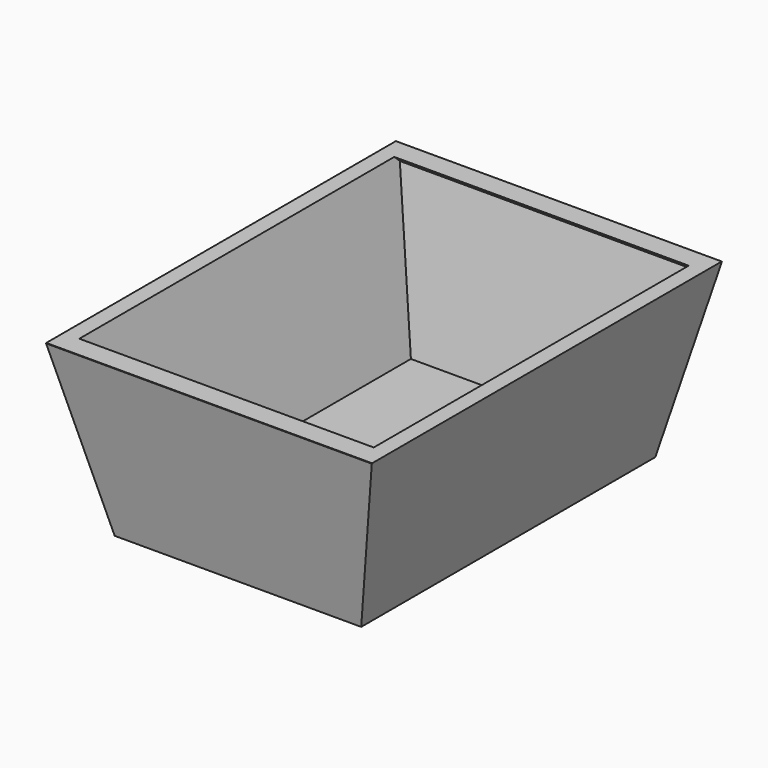
from build123d import *

# Parameters (mm, degrees)
F0_W      = 16.1028504372
F0_H      = 24.0115216002
F2_W      = 24
F2_H      = 31
F5_W      = 14.02631565
F5_H      = 35.0832007825
F6_DEPTH  = 5
F8_W      = 36.7084983736
F8_H      = 15.6723505352
F9_DEPTH  = 5
F11_W     = 29.3105235323
F11_H     = 18.8404771034
F12_DEPTH = 5
F14_W     = 31.5226018429
F14_H     = 13.2806529291
F15_DEPTH = 5
F16_W     = 24.9057402834
F16_H     = 7.8468071297
F17_DEPTH = 25.4
F18_T     = -1


with BuildPart() as f3:
    # F0 (on Top) → F3 section 0
    with BuildSketch(Plane.XY):
        with Locations((0.0935448334, 0.0057467259)):
            Rectangle(F0_W, F0_H)
    # F2 (on offset) → F3 section 1
    with BuildSketch(Plane.XY.offset(17)):
        Rectangle(F2_W, F2_H)
    loft()

    # F5 (on face) → F6 (cut)
    with BuildSketch(Plane(origin=(-14.5, 0, 14.5), x_dir=(0.7071067812, 0, 0.7071067812), z_dir=(0.7071067812, 0, -0.7071067812))):
        with Locations((2.1269769641, -0.2655759454)):
            Rectangle(F5_W, F5_H)
    extrude(amount=F6_DEPTH, mode=Mode.SUBTRACT)

    # F8 (on face) → F9 (cut)
    with BuildSketch(Plane(origin=(14.5, 0, 14.5), x_dir=(0, 1, 0), z_dir=(0.7071067812, 0, 0.7071067812))):
        with Locations((-0.0566011295, 4.1208126349)):
            Rectangle(F8_W, F8_H)
    extrude(amount=-F9_DEPTH, mode=Mode.SUBTRACT)

    # F11 (on face) → F12 (cut)
    with BuildSketch(Plane(origin=(0, 16.25, 16.25), x_dir=(-1, 0, 0), z_dir=(0, 0.7071067812, 0.7071067812))):
        with Locations((0.3414950334, 3.7744397996)):
            Rectangle(F11_W, F11_H)
    extrude(amount=-F12_DEPTH, mode=Mode.SUBTRACT)

    # F14 (on face) → F15 (cut)
    with BuildSketch(Plane(origin=(0, -16.25, 16.25), x_dir=(1, 0, 0), z_dir=(0, 0.7071067812, -0.7071067812))):
        with Locations((0.8808970451, -0.6048630457)):
            Rectangle(F14_W, F14_H)
    extrude(amount=F15_DEPTH, mode=Mode.SUBTRACT)

    # F16 (on Front) → F17 (cut, symmetric)
    with BuildSketch(Plane.XZ):
        with Locations((-1.3808882795, 15.0799336843)):
            Rectangle(F16_W, F16_H)
    extrude(amount=F17_DEPTH, both=True, mode=Mode.SUBTRACT)

    # F18
    f18_openings = [f3.faces().sort_by_distance(p)[0] for p in [
        (0.032154, 0, 11.15653),
    ]]
    offset(amount=F18_T, openings=f18_openings)


solid = f3.part
